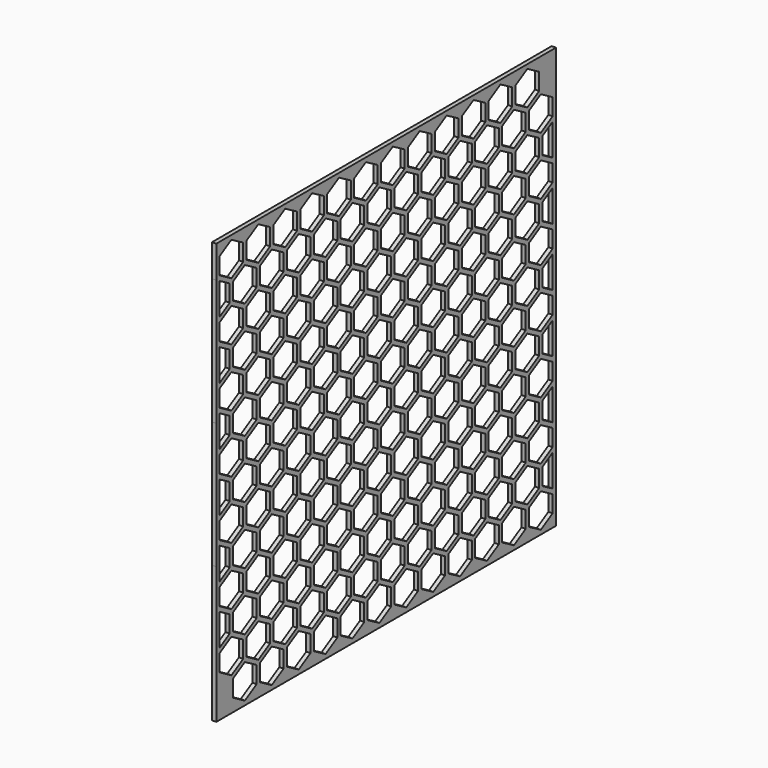
from build123d import *

# Parameters (mm, degrees)
F0_W     = 2020
F0_H     = 2002.9909152447
F1_DEPTH = 20
F2_D     = 0.05


with BuildPart() as f1:
    # F0 (on Right) → F1 (new body)
    with BuildSketch(Plane.YZ):
        with Locations((200, 900.6664199358)):
            Rectangle(F0_W, F0_H)
        Polygon((-570, -40.4145188433), (-640, -80.8290376865), (-710, -40.4145188433), (-710, 40.4145188433), (-640, 80.8290376865), (-570, 40.4145188433), align=None, mode=Mode.SUBTRACT)
        Polygon((-790, 98.1495457622), (-790, 178.9785834488), (-720, 219.3931022921), (-650, 178.9785834488), (-650, 98.1495457622), (-720, 57.735026919), align=None, mode=Mode.SUBTRACT)
        Polygon((-560, 219.3931022921), (-490, 178.9785834488), (-490, 98.1495457622), (-560, 57.735026919), (-630, 98.1495457622), (-630, 178.9785834488), align=None, mode=Mode.SUBTRACT)
        Polygon((-550, 40.4145188433), (-480, 80.8290376865), (-410, 40.4145188433), (-410, -40.4145188433), (-480, -80.8290376865), (-550, -40.4145188433), align=None, mode=Mode.SUBTRACT)
        Polygon((-250, 40.4145188433), (-250, -40.4145188433), (-320, -80.8290376865), (-390, -40.4145188433), (-390, 40.4145188433), (-320, 80.8290376865), align=None, mode=Mode.SUBTRACT)
        Polygon((-330, 98.1495457622), (-400, 57.735026919), (-470, 98.1495457622), (-470, 178.9785834488), (-400, 219.3931022921), (-330, 178.9785834488), align=None, mode=Mode.SUBTRACT)
        Polygon((-730, 317.5426480543), (-730, 236.7136103677), (-790, 202.0725942164), (-790, 352.1836642057), align=None, mode=Mode.SUBTRACT)
        Polygon((-570, 236.7136103677), (-640, 196.2990915245), (-710, 236.7136103677), (-710, 317.5426480543), (-640, 357.9571668976), (-570, 317.5426480543), align=None, mode=Mode.SUBTRACT)
        Polygon((-410, 236.7136103677), (-480, 196.2990915245), (-550, 236.7136103677), (-550, 317.5426480543), (-480, 357.9571668976), (-410, 317.5426480543), align=None, mode=Mode.SUBTRACT)
        Polygon((-250, 317.5426480543), (-250, 236.7136103677), (-320, 196.2990915245), (-390, 236.7136103677), (-390, 317.5426480543), (-320, 357.9571668976), align=None, mode=Mode.SUBTRACT)
        Polygon((-230, 40.4145188433), (-160, 80.8290376865), (-90, 40.4145188433), (-90, -40.4145188433), (-160, -80.8290376865), (-230, -40.4145188433), align=None, mode=Mode.SUBTRACT)
        Polygon((-240, 219.3931022921), (-170, 178.9785834488), (-170, 98.1495457622), (-240, 57.735026919), (-310, 98.1495457622), (-310, 178.9785834488), align=None, mode=Mode.SUBTRACT)
        Polygon((-10, 178.9785834488), (-10, 98.1495457622), (-80, 57.735026919), (-150, 98.1495457622), (-150, 178.9785834488), (-80, 219.3931022921), align=None, mode=Mode.SUBTRACT)
        Polygon((70, -40.4145188433), (0, -80.8290376865), (-70, -40.4145188433), (-70, 40.4145188433), (0, 80.8290376865), (70, 40.4145188433), align=None, mode=Mode.SUBTRACT)
        Polygon((230, -40.4145188433), (160, -80.8290376865), (90, -40.4145188433), (90, 40.4145188433), (160, 80.8290376865), (230, 40.4145188433), align=None, mode=Mode.SUBTRACT)
        Polygon((80, 57.735026919), (10, 98.1495457622), (10, 178.9785834488), (80, 219.3931022921), (150, 178.9785834488), (150, 98.1495457622), align=None, mode=Mode.SUBTRACT)
        Polygon((-230, 236.7136103677), (-230, 317.5426480543), (-160, 357.9571668976), (-90, 317.5426480543), (-90, 236.7136103677), (-160, 196.2990915245), align=None, mode=Mode.SUBTRACT)
        Polygon((-70, 317.5426480543), (0, 357.9571668976), (70, 317.5426480543), (70, 236.7136103677), (0, 196.2990915245), (-70, 236.7136103677), align=None, mode=Mode.SUBTRACT)
        Polygon((160, 196.2990915245), (90, 236.7136103677), (90, 317.5426480543), (160, 357.9571668976), (230, 317.5426480543), (230, 236.7136103677), align=None, mode=Mode.SUBTRACT)
        Polygon((-650, 375.2776749733), (-720, 334.86315613), (-790, 375.2776749733), (-790, 456.1067126598), (-720, 496.5212315031), (-650, 456.1067126598), align=None, mode=Mode.SUBTRACT)
        Polygon((-560, 334.86315613), (-630, 375.2776749733), (-630, 456.1067126598), (-560, 496.5212315031), (-490, 456.1067126598), (-490, 375.2776749733), align=None, mode=Mode.SUBTRACT)
        Polygon((-790, 479.2007234274), (-790, 629.3117934167), (-730, 594.6707772653), (-730, 513.8417395788), align=None, mode=Mode.SUBTRACT)
        Polygon((-710, 513.8417395788), (-710, 594.6707772653), (-640, 635.0852961086), (-570, 594.6707772653), (-570, 513.8417395788), (-640, 473.4272207355), align=None, mode=Mode.SUBTRACT)
        Polygon((-400, 334.86315613), (-470, 375.2776749733), (-470, 456.1067126598), (-400, 496.5212315031), (-330, 456.1067126598), (-330, 375.2776749733), align=None, mode=Mode.SUBTRACT)
        Polygon((-410, 513.8417395788), (-480, 473.4272207355), (-550, 513.8417395788), (-550, 594.6707772653), (-480, 635.0852961086), (-410, 594.6707772653), align=None, mode=Mode.SUBTRACT)
        Polygon((-390, 594.6707772653), (-320, 635.0852961086), (-250, 594.6707772653), (-250, 513.8417395788), (-320, 473.4272207355), (-390, 513.8417395788), align=None, mode=Mode.SUBTRACT)
        Polygon((-720, 773.6493607141), (-650, 733.2348418708), (-650, 652.4058041843), (-720, 611.991285341), (-790, 652.4058041843), (-790, 733.2348418708), align=None, mode=Mode.SUBTRACT)
        Polygon((-630, 733.2348418708), (-560, 773.6493607141), (-490, 733.2348418708), (-490, 652.4058041843), (-560, 611.991285341), (-630, 652.4058041843), align=None, mode=Mode.SUBTRACT)
        Polygon((-730, 871.7989064763), (-730, 790.9698687898), (-790, 756.3288526384), (-790, 906.4399226277), align=None, mode=Mode.SUBTRACT)
        Polygon((-570, 790.9698687898), (-640, 750.5553499465), (-710, 790.9698687898), (-710, 871.7989064763), (-640, 912.2134253196), (-570, 871.7989064763), align=None, mode=Mode.SUBTRACT)
        Polygon((-470, 733.2348418708), (-400, 773.6493607141), (-330, 733.2348418708), (-330, 652.4058041843), (-400, 611.991285341), (-470, 652.4058041843), align=None, mode=Mode.SUBTRACT)
        Polygon((-410, 871.7989064763), (-410, 790.9698687898), (-480, 750.5553499465), (-550, 790.9698687898), (-550, 871.7989064763), (-480, 912.2134253196), align=None, mode=Mode.SUBTRACT)
        Polygon((-250, 790.9698687898), (-320, 750.5553499465), (-390, 790.9698687898), (-390, 871.7989064763), (-320, 912.2134253196), (-250, 871.7989064763), align=None, mode=Mode.SUBTRACT)
        Polygon((-170, 375.2776749733), (-240, 334.86315613), (-310, 375.2776749733), (-310, 456.1067126598), (-240, 496.5212315031), (-170, 456.1067126598), align=None, mode=Mode.SUBTRACT)
        Polygon((-80, 334.86315613), (-150, 375.2776749733), (-150, 456.1067126598), (-80, 496.5212315031), (-10, 456.1067126598), (-10, 375.2776749733), align=None, mode=Mode.SUBTRACT)
        Polygon((-230, 594.6707772653), (-160, 635.0852961086), (-90, 594.6707772653), (-90, 513.8417395788), (-160, 473.4272207355), (-230, 513.8417395788), align=None, mode=Mode.SUBTRACT)
        Polygon((150, 375.2776749733), (80, 334.86315613), (10, 375.2776749733), (10, 456.1067126598), (80, 496.5212315031), (150, 456.1067126598), align=None, mode=Mode.SUBTRACT)
        Polygon((-70, 594.6707772653), (0, 635.0852961086), (70, 594.6707772653), (70, 513.8417395788), (0, 473.4272207355), (-70, 513.8417395788), align=None, mode=Mode.SUBTRACT)
        Polygon((230, 513.8417395788), (160, 473.4272207355), (90, 513.8417395788), (90, 594.6707772653), (160, 635.0852961086), (230, 594.6707772653), align=None, mode=Mode.SUBTRACT)
        Polygon((-310, 733.2348418708), (-240, 773.6493607141), (-170, 733.2348418708), (-170, 652.4058041843), (-240, 611.991285341), (-310, 652.4058041843), align=None, mode=Mode.SUBTRACT)
        Polygon((-150, 733.2348418708), (-80, 773.6493607141), (-10, 733.2348418708), (-10, 652.4058041843), (-80, 611.991285341), (-150, 652.4058041843), align=None, mode=Mode.SUBTRACT)
        Polygon((-90, 790.9698687898), (-160, 750.5553499465), (-230, 790.9698687898), (-230, 871.7989064763), (-160, 912.2134253196), (-90, 871.7989064763), align=None, mode=Mode.SUBTRACT)
        Polygon((10, 652.4058041843), (10, 733.2348418708), (80, 773.6493607141), (150, 733.2348418708), (150, 652.4058041843), (80, 611.991285341), align=None, mode=Mode.SUBTRACT)
        Polygon((70, 790.9698687898), (0, 750.5553499465), (-70, 790.9698687898), (-70, 871.7989064763), (0, 912.2134253196), (70, 871.7989064763), align=None, mode=Mode.SUBTRACT)
        Polygon((160, 750.5553499465), (90, 790.9698687898), (90, 871.7989064763), (160, 912.2134253196), (230, 871.7989064763), (230, 790.9698687898), align=None, mode=Mode.SUBTRACT)
        Polygon((250, 40.4145188433), (320, 80.8290376865), (390, 40.4145188433), (390, -40.4145188433), (320, -80.8290376865), (250, -40.4145188433), align=None, mode=Mode.SUBTRACT)
        Polygon((240, 219.3931022921), (310, 178.9785834488), (310, 98.1495457622), (240, 57.735026919), (170, 98.1495457622), (170, 178.9785834488), align=None, mode=Mode.SUBTRACT)
        Polygon((470, 98.1495457622), (400, 57.735026919), (330, 98.1495457622), (330, 178.9785834488), (400, 219.3931022921), (470, 178.9785834488), align=None, mode=Mode.SUBTRACT)
        Polygon((410, -40.4145188433), (410, 40.4145188433), (480, 80.8290376865), (550, 40.4145188433), (550, -40.4145188433), (480, -80.8290376865), align=None, mode=Mode.SUBTRACT)
        Polygon((570, 40.4145188433), (640, 80.8290376865), (710, 40.4145188433), (710, -40.4145188433), (640, -80.8290376865), (570, -40.4145188433), align=None, mode=Mode.SUBTRACT)
        Polygon((560, 57.735026919), (490, 98.1495457622), (490, 178.9785834488), (560, 219.3931022921), (630, 178.9785834488), (630, 98.1495457622), align=None, mode=Mode.SUBTRACT)
        Polygon((390, 317.5426480543), (390, 236.7136103677), (320, 196.2990915245), (250, 236.7136103677), (250, 317.5426480543), (320, 357.9571668976), align=None, mode=Mode.SUBTRACT)
        Polygon((480, 196.2990915245), (410, 236.7136103677), (410, 317.5426480543), (480, 357.9571668976), (550, 317.5426480543), (550, 236.7136103677), align=None, mode=Mode.SUBTRACT)
        Polygon((570, 317.5426480543), (640, 357.9571668976), (710, 317.5426480543), (710, 236.7136103677), (640, 196.2990915245), (570, 236.7136103677), align=None, mode=Mode.SUBTRACT)
        Polygon((800, 80.8290376865), (870, 40.4145188433), (870, -40.4145188433), (800, -80.8290376865), (730, -40.4145188433), (730, 40.4145188433), align=None, mode=Mode.SUBTRACT)
        Polygon((720, 219.3931022921), (790, 178.9785834488), (790, 98.1495457622), (720, 57.735026919), (650, 98.1495457622), (650, 178.9785834488), align=None, mode=Mode.SUBTRACT)
        Polygon((880, 219.3931022921), (950, 178.9785834488), (950, 98.1495457622), (880, 57.735026919), (810, 98.1495457622), (810, 178.9785834488), align=None, mode=Mode.SUBTRACT)
        Polygon((1030, -40.4145188433), (960, -80.8290376865), (890, -40.4145188433), (890, 40.4145188433), (960, 80.8290376865), (1030, 40.4145188433), align=None, mode=Mode.SUBTRACT)
        Polygon((1190, -40.4145188433), (1120, -80.8290376865), (1050, -40.4145188433), (1050, 40.4145188433), (1120, 80.8290376865), (1190, 40.4145188433), align=None, mode=Mode.SUBTRACT)
        Polygon((970, 98.1495457622), (970, 178.9785834488), (1040, 219.3931022921), (1110, 178.9785834488), (1110, 98.1495457622), (1040, 57.735026919), align=None, mode=Mode.SUBTRACT)
        Polygon((1190, 63.5085296108), (1130, 98.1495457622), (1130, 178.9785834488), (1190, 213.6195996002), align=None, mode=Mode.SUBTRACT)
        Polygon((870, 317.5426480543), (870, 236.7136103678), (800, 196.2990915245), (730, 236.7136103678), (730, 317.5426480543), (800, 357.9571668976), align=None, mode=Mode.SUBTRACT)
        Polygon((1030, 236.7136103678), (960, 196.2990915245), (890, 236.7136103678), (890, 317.5426480543), (960, 357.9571668976), (1030, 317.5426480543), align=None, mode=Mode.SUBTRACT)
        Polygon((1190, 236.7136103678), (1120, 196.2990915245), (1050, 236.7136103678), (1050, 317.5426480543), (1120, 357.9571668976), (1190, 317.5426480543), align=None, mode=Mode.SUBTRACT)
        Polygon((310, 456.1067126598), (310, 375.2776749733), (240, 334.86315613), (170, 375.2776749733), (170, 456.1067126598), (240, 496.5212315031), align=None, mode=Mode.SUBTRACT)
        Polygon((470, 456.1067126598), (470, 375.2776749733), (400, 334.86315613), (330, 375.2776749733), (330, 456.1067126598), (400, 496.5212315031), align=None, mode=Mode.SUBTRACT)
        Polygon((390, 594.6707772653), (390, 513.8417395788), (320, 473.4272207355), (250, 513.8417395788), (250, 594.6707772653), (320, 635.0852961086), align=None, mode=Mode.SUBTRACT)
        Polygon((630, 375.2776749733), (560, 334.86315613), (490, 375.2776749733), (490, 456.1067126598), (560, 496.5212315031), (630, 456.1067126598), align=None, mode=Mode.SUBTRACT)
        Polygon((410, 513.8417395788), (410, 594.6707772653), (480, 635.0852961086), (550, 594.6707772653), (550, 513.8417395788), (480, 473.4272207355), align=None, mode=Mode.SUBTRACT)
        Polygon((640, 635.0852961086), (710, 594.6707772653), (710, 513.8417395788), (640, 473.4272207355), (570, 513.8417395788), (570, 594.6707772653), align=None, mode=Mode.SUBTRACT)
        Polygon((170, 733.2348418708), (240, 773.6493607141), (310, 733.2348418708), (310, 652.4058041843), (240, 611.991285341), (170, 652.4058041843), align=None, mode=Mode.SUBTRACT)
        Polygon((330, 733.2348418708), (400, 773.6493607141), (470, 733.2348418708), (470, 652.4058041843), (400, 611.991285341), (330, 652.4058041843), align=None, mode=Mode.SUBTRACT)
        Polygon((390, 790.9698687898), (320, 750.5553499465), (250, 790.9698687898), (250, 871.7989064763), (320, 912.2134253196), (390, 871.7989064763), align=None, mode=Mode.SUBTRACT)
        Polygon((490, 733.2348418708), (560, 773.6493607141), (630, 733.2348418708), (630, 652.4058041843), (560, 611.991285341), (490, 652.4058041843), align=None, mode=Mode.SUBTRACT)
        Polygon((550, 871.7989064763), (550, 790.9698687898), (480, 750.5553499465), (410, 790.9698687898), (410, 871.7989064763), (480, 912.2134253196), align=None, mode=Mode.SUBTRACT)
        Polygon((710, 790.9698687898), (640, 750.5553499465), (570, 790.9698687898), (570, 871.7989064763), (640, 912.2134253196), (710, 871.7989064763), align=None, mode=Mode.SUBTRACT)
        Polygon((790, 375.2776749733), (720, 334.86315613), (650, 375.2776749733), (650, 456.1067126598), (720, 496.5212315031), (790, 456.1067126598), align=None, mode=Mode.SUBTRACT)
        Polygon((950, 456.1067126598), (950, 375.2776749733), (880, 334.86315613), (810, 375.2776749733), (810, 456.1067126598), (880, 496.5212315031), align=None, mode=Mode.SUBTRACT)
        Polygon((870, 513.8417395788), (800, 473.4272207355), (730, 513.8417395788), (730, 594.6707772653), (800, 635.0852961086), (870, 594.6707772653), align=None, mode=Mode.SUBTRACT)
        Polygon((1110, 375.2776749733), (1040, 334.86315613), (970, 375.2776749733), (970, 456.1067126598), (1040, 496.5212315031), (1110, 456.1067126598), align=None, mode=Mode.SUBTRACT)
        Polygon((1190, 340.6366588219), (1130, 375.2776749733), (1130, 456.1067126598), (1190, 490.7477288112), align=None, mode=Mode.SUBTRACT)
        Polygon((1030, 513.8417395788), (960, 473.4272207355), (890, 513.8417395788), (890, 594.6707772653), (960, 635.0852961086), (1030, 594.6707772653), align=None, mode=Mode.SUBTRACT)
        Polygon((1120, 635.0852961086), (1190, 594.6707772653), (1190, 513.8417395788), (1120, 473.4272207355), (1050, 513.8417395788), (1050, 594.6707772653), align=None, mode=Mode.SUBTRACT)
        Polygon((720, 773.6493607141), (790, 733.2348418708), (790, 652.4058041843), (720, 611.991285341), (650, 652.4058041843), (650, 733.2348418708), align=None, mode=Mode.SUBTRACT)
        Polygon((880, 773.6493607141), (950, 733.2348418708), (950, 652.4058041843), (880, 611.991285341), (810, 652.4058041843), (810, 733.2348418708), align=None, mode=Mode.SUBTRACT)
        Polygon((870, 871.7989064763), (870, 790.9698687898), (800, 750.5553499465), (730, 790.9698687898), (730, 871.7989064763), (800, 912.2134253196), align=None, mode=Mode.SUBTRACT)
        Polygon((1040, 773.6493607141), (1110, 733.2348418708), (1110, 652.4058041843), (1040, 611.991285341), (970, 652.4058041843), (970, 733.2348418708), align=None, mode=Mode.SUBTRACT)
        Polygon((1130, 652.4058041843), (1130, 733.2348418708), (1190, 767.8758580222), (1190, 617.7647880329), align=None, mode=Mode.SUBTRACT)
        Polygon((1030, 790.9698687898), (960, 750.5553499465), (890, 790.9698687898), (890, 871.7989064763), (960, 912.2134253196), (1030, 871.7989064763), align=None, mode=Mode.SUBTRACT)
        Polygon((1190, 871.7989064763), (1190, 790.9698687898), (1120, 750.5553499465), (1050, 790.9698687898), (1050, 871.7989064763), (1120, 912.2134253196), align=None, mode=Mode.SUBTRACT)
        Polygon((-650, 929.5339333953), (-720, 889.119414552), (-790, 929.5339333953), (-790, 1010.3629710818), (-720, 1050.7774899251), (-650, 1010.3629710818), align=None, mode=Mode.SUBTRACT)
        Polygon((-560, 889.119414552), (-630, 929.5339333953), (-630, 1010.3629710818), (-560, 1050.7774899251), (-490, 1010.3629710818), (-490, 929.5339333953), align=None, mode=Mode.SUBTRACT)
        Polygon((-790, 1033.4569818494), (-790, 1183.5680518387), (-730, 1148.9270356874), (-730, 1068.0979980008), align=None, mode=Mode.SUBTRACT)
        Polygon((-710, 1148.9270356874), (-640, 1189.3415545306), (-570, 1148.9270356874), (-570, 1068.0979980008), (-640, 1027.6834791575), (-710, 1068.0979980008), align=None, mode=Mode.SUBTRACT)
        Polygon((-400, 889.119414552), (-470, 929.5339333953), (-470, 1010.3629710818), (-400, 1050.7774899251), (-330, 1010.3629710819), (-330, 929.5339333953), align=None, mode=Mode.SUBTRACT)
        Polygon((-410, 1068.0979980008), (-480, 1027.6834791575), (-550, 1068.0979980008), (-550, 1148.9270356874), (-480, 1189.3415545306), (-410, 1148.9270356874), align=None, mode=Mode.SUBTRACT)
        Polygon((-390, 1068.0979980008), (-390, 1148.9270356874), (-320, 1189.3415545306), (-250, 1148.9270356874), (-250, 1068.0979980008), (-320, 1027.6834791575), align=None, mode=Mode.SUBTRACT)
        Polygon((-790, 1287.4911002929), (-720, 1327.9056191361), (-650, 1287.4911002929), (-650, 1206.6620626063), (-720, 1166.247543763), (-790, 1206.6620626063), align=None, mode=Mode.SUBTRACT)
        Polygon((-630, 1206.6620626063), (-630, 1287.4911002929), (-560, 1327.9056191361), (-490, 1287.4911002929), (-490, 1206.6620626063), (-560, 1166.247543763), align=None, mode=Mode.SUBTRACT)
        Polygon((-790, 1460.6961810498), (-730, 1426.0551648984), (-730, 1345.2261272118), (-790, 1310.5851110605), align=None, mode=Mode.SUBTRACT)
        Polygon((-710, 1426.0551648984), (-640, 1466.4696837417), (-570, 1426.0551648984), (-570, 1345.2261272118), (-640, 1304.8116083686), (-710, 1345.2261272118), align=None, mode=Mode.SUBTRACT)
        Polygon((-470, 1287.4911002929), (-400, 1327.9056191361), (-330, 1287.4911002929), (-330, 1206.6620626063), (-400, 1166.247543763), (-470, 1206.6620626063), align=None, mode=Mode.SUBTRACT)
        Polygon((-480, 1466.4696837417), (-410, 1426.0551648984), (-410, 1345.2261272118), (-480, 1304.8116083686), (-550, 1345.2261272118), (-550, 1426.0551648984), align=None, mode=Mode.SUBTRACT)
        Polygon((-320, 1466.4696837417), (-250, 1426.0551648984), (-250, 1345.2261272118), (-320, 1304.8116083686), (-390, 1345.2261272118), (-390, 1426.0551648984), align=None, mode=Mode.SUBTRACT)
        Polygon((-170, 929.5339333953), (-240, 889.119414552), (-310, 929.5339333953), (-310, 1010.3629710818), (-240, 1050.7774899251), (-170, 1010.3629710819), align=None, mode=Mode.SUBTRACT)
        Polygon((-10, 929.5339333953), (-80, 889.119414552), (-150, 929.5339333953), (-150, 1010.3629710819), (-80, 1050.7774899251), (-10, 1010.3629710819), align=None, mode=Mode.SUBTRACT)
        Polygon((-90, 1148.9270356874), (-90, 1068.0979980008), (-160, 1027.6834791575), (-230, 1068.0979980008), (-230, 1148.9270356874), (-160, 1189.3415545306), align=None, mode=Mode.SUBTRACT)
        Polygon((150, 929.5339333953), (80, 889.119414552), (10, 929.5339333953), (10, 1010.3629710819), (80, 1050.7774899251), (150, 1010.3629710819), align=None, mode=Mode.SUBTRACT)
        Polygon((0, 1027.6834791575), (-70, 1068.0979980008), (-70, 1148.9270356874), (0, 1189.3415545306), (70, 1148.9270356874), (70, 1068.0979980008), align=None, mode=Mode.SUBTRACT)
        Polygon((160, 1189.3415545306), (230, 1148.9270356874), (230, 1068.0979980008), (160, 1027.6834791575), (90, 1068.0979980008), (90, 1148.9270356874), align=None, mode=Mode.SUBTRACT)
        Polygon((-240, 1327.9056191361), (-170, 1287.4911002929), (-170, 1206.6620626063), (-240, 1166.247543763), (-310, 1206.6620626063), (-310, 1287.4911002929), align=None, mode=Mode.SUBTRACT)
        Polygon((-150, 1287.4911002929), (-80, 1327.9056191361), (-10, 1287.4911002929), (-10, 1206.6620626063), (-80, 1166.247543763), (-150, 1206.6620626063), align=None, mode=Mode.SUBTRACT)
        Polygon((-230, 1426.0551648984), (-160, 1466.4696837417), (-90, 1426.0551648984), (-90, 1345.2261272118), (-160, 1304.8116083686), (-230, 1345.2261272118), align=None, mode=Mode.SUBTRACT)
        Polygon((10, 1206.6620626063), (10, 1287.4911002929), (80, 1327.9056191361), (150, 1287.4911002929), (150, 1206.6620626063), (80, 1166.247543763), align=None, mode=Mode.SUBTRACT)
        Polygon((-70, 1345.2261272118), (-70, 1426.0551648984), (0, 1466.4696837417), (70, 1426.0551648984), (70, 1345.2261272118), (0, 1304.8116083686), align=None, mode=Mode.SUBTRACT)
        Polygon((90, 1426.0551648984), (160, 1466.4696837417), (230, 1426.0551648984), (230, 1345.2261272118), (160, 1304.8116083686), (90, 1345.2261272118), align=None, mode=Mode.SUBTRACT)
        Polygon((-650, 1483.7901918173), (-720, 1443.3756729741), (-790, 1483.7901918173), (-790, 1564.6192295039), (-720, 1605.0337483472), (-650, 1564.6192295039), align=None, mode=Mode.SUBTRACT)
        Polygon((-490, 1483.7901918173), (-560, 1443.3756729741), (-630, 1483.7901918173), (-630, 1564.6192295039), (-560, 1605.0337483472), (-490, 1564.6192295039), align=None, mode=Mode.SUBTRACT)
        Polygon((-330, 1483.7901918173), (-400, 1443.3756729741), (-470, 1483.7901918173), (-470, 1564.6192295039), (-400, 1605.0337483472), (-330, 1564.6192295039), align=None, mode=Mode.SUBTRACT)
        Polygon((-730, 1703.1832941094), (-730, 1622.3542564229), (-790, 1587.7132402715), (-790, 1737.8243102608), align=None, mode=Mode.SUBTRACT)
        Polygon((-570, 1703.1832941094), (-570, 1622.3542564229), (-640, 1581.9397375796), (-710, 1622.3542564229), (-710, 1703.1832941094), (-640, 1743.5978129527), align=None, mode=Mode.SUBTRACT)
        Polygon((-720, 1882.1618775582), (-650, 1841.7473587149), (-650, 1760.9183210284), (-720, 1720.5038021851), (-790, 1760.9183210284), (-790, 1841.7473587149), align=None, mode=Mode.SUBTRACT)
        Polygon((-630, 1841.7473587149), (-560, 1882.1618775582), (-490, 1841.7473587149), (-490, 1760.9183210284), (-560, 1720.5038021851), (-630, 1760.9183210284), align=None, mode=Mode.SUBTRACT)
        Polygon((-410, 1622.3542564229), (-480, 1581.9397375796), (-550, 1622.3542564229), (-550, 1703.1832941094), (-480, 1743.5978129527), (-410, 1703.1832941094), align=None, mode=Mode.SUBTRACT)
        Polygon((-250, 1622.3542564229), (-320, 1581.9397375796), (-390, 1622.3542564229), (-390, 1703.1832941094), (-320, 1743.5978129527), (-250, 1703.1832941094), align=None, mode=Mode.SUBTRACT)
        Polygon((-470, 1841.7473587149), (-400, 1882.1618775582), (-330, 1841.7473587149), (-330, 1760.9183210284), (-400, 1720.5038021851), (-470, 1760.9183210284), align=None, mode=Mode.SUBTRACT)
        Polygon((-170, 1483.7901918173), (-240, 1443.3756729741), (-310, 1483.7901918173), (-310, 1564.6192295039), (-240, 1605.0337483472), (-170, 1564.6192295039), align=None, mode=Mode.SUBTRACT)
        Polygon((-80, 1443.3756729741), (-150, 1483.7901918173), (-150, 1564.6192295039), (-80, 1605.0337483472), (-10, 1564.6192295039), (-10, 1483.7901918173), align=None, mode=Mode.SUBTRACT)
        Polygon((80, 1443.3756729741), (10, 1483.7901918173), (10, 1564.6192295039), (80, 1605.0337483472), (150, 1564.6192295039), (150, 1483.7901918173), align=None, mode=Mode.SUBTRACT)
        Polygon((-90, 1622.3542564229), (-160, 1581.9397375796), (-230, 1622.3542564229), (-230, 1703.1832941094), (-160, 1743.5978129527), (-90, 1703.1832941094), align=None, mode=Mode.SUBTRACT)
        Polygon((-310, 1841.7473587149), (-240, 1882.1618775582), (-170, 1841.7473587149), (-170, 1760.9183210284), (-240, 1720.5038021851), (-310, 1760.9183210284), align=None, mode=Mode.SUBTRACT)
        Polygon((-150, 1760.9183210284), (-150, 1841.7473587149), (-80, 1882.1618775582), (-10, 1841.7473587149), (-10, 1760.9183210284), (-80, 1720.5038021851), align=None, mode=Mode.SUBTRACT)
        Polygon((70, 1703.1832941094), (70, 1622.3542564229), (0, 1581.9397375796), (-70, 1622.3542564229), (-70, 1703.1832941094), (0, 1743.5978129527), align=None, mode=Mode.SUBTRACT)
        Polygon((230, 1622.3542564229), (160, 1581.9397375796), (90, 1622.3542564229), (90, 1703.1832941094), (160, 1743.5978129527), (230, 1703.1832941094), align=None, mode=Mode.SUBTRACT)
        Polygon((10, 1841.7473587149), (80, 1882.1618775582), (150, 1841.7473587149), (150, 1760.9183210284), (80, 1720.5038021851), (10, 1760.9183210284), align=None, mode=Mode.SUBTRACT)
        Polygon((310, 1010.3629710819), (310, 929.5339333953), (240, 889.119414552), (170, 929.5339333953), (170, 1010.3629710819), (240, 1050.7774899251), align=None, mode=Mode.SUBTRACT)
        Polygon((470, 1010.3629710819), (470, 929.5339333953), (400, 889.119414552), (330, 929.5339333953), (330, 1010.3629710819), (400, 1050.7774899251), align=None, mode=Mode.SUBTRACT)
        Polygon((320, 1027.6834791575), (250, 1068.0979980008), (250, 1148.9270356874), (320, 1189.3415545306), (390, 1148.9270356874), (390, 1068.0979980008), align=None, mode=Mode.SUBTRACT)
        Polygon((630, 929.5339333953), (560, 889.119414552), (490, 929.5339333953), (490, 1010.3629710819), (560, 1050.7774899251), (630, 1010.3629710819), align=None, mode=Mode.SUBTRACT)
        Polygon((480, 1189.3415545306), (550, 1148.9270356874), (550, 1068.0979980008), (480, 1027.6834791575), (410, 1068.0979980008), (410, 1148.9270356874), align=None, mode=Mode.SUBTRACT)
        Polygon((640, 1027.6834791575), (570, 1068.0979980008), (570, 1148.9270356874), (640, 1189.3415545306), (710, 1148.9270356874), (710, 1068.0979980008), align=None, mode=Mode.SUBTRACT)
        Polygon((170, 1287.4911002929), (240, 1327.9056191361), (310, 1287.4911002929), (310, 1206.6620626063), (240, 1166.2475437631), (170, 1206.6620626063), align=None, mode=Mode.SUBTRACT)
        Polygon((330, 1287.4911002929), (400, 1327.9056191361), (470, 1287.4911002929), (470, 1206.6620626063), (400, 1166.2475437631), (330, 1206.6620626063), align=None, mode=Mode.SUBTRACT)
        Polygon((250, 1426.0551648984), (320, 1466.4696837417), (390, 1426.0551648984), (390, 1345.2261272118), (320, 1304.8116083686), (250, 1345.2261272118), align=None, mode=Mode.SUBTRACT)
        Polygon((560, 1327.9056191361), (630, 1287.4911002929), (630, 1206.6620626063), (560, 1166.2475437631), (490, 1206.6620626063), (490, 1287.4911002929), align=None, mode=Mode.SUBTRACT)
        Polygon((480, 1466.4696837417), (550, 1426.0551648984), (550, 1345.2261272118), (480, 1304.8116083686), (410, 1345.2261272118), (410, 1426.0551648984), align=None, mode=Mode.SUBTRACT)
        Polygon((570, 1426.0551648984), (640, 1466.4696837417), (710, 1426.0551648984), (710, 1345.2261272118), (640, 1304.8116083686), (570, 1345.2261272118), align=None, mode=Mode.SUBTRACT)
        Polygon((790, 929.5339333953), (720, 889.119414552), (650, 929.5339333953), (650, 1010.3629710819), (720, 1050.7774899251), (790, 1010.3629710819), align=None, mode=Mode.SUBTRACT)
        Polygon((950, 929.5339333953), (880, 889.119414552), (810, 929.5339333953), (810, 1010.3629710819), (880, 1050.7774899251), (950, 1010.3629710819), align=None, mode=Mode.SUBTRACT)
        Polygon((730, 1148.9270356874), (800, 1189.3415545306), (870, 1148.9270356874), (870, 1068.0979980008), (800, 1027.6834791575), (730, 1068.0979980008), align=None, mode=Mode.SUBTRACT)
        Polygon((1110, 929.5339333953), (1040, 889.119414552), (970, 929.5339333953), (970, 1010.3629710819), (1040, 1050.7774899251), (1110, 1010.3629710819), align=None, mode=Mode.SUBTRACT)
        Polygon((1190, 894.8929172439), (1130, 929.5339333953), (1130, 1010.3629710819), (1190, 1045.0039872332), align=None, mode=Mode.SUBTRACT)
        Polygon((1030, 1148.9270356874), (1030, 1068.0979980008), (960, 1027.6834791575), (890, 1068.0979980008), (890, 1148.9270356874), (960, 1189.3415545306), align=None, mode=Mode.SUBTRACT)
        Polygon((1050, 1148.9270356874), (1120, 1189.3415545306), (1190, 1148.9270356874), (1190, 1068.0979980008), (1120, 1027.6834791575), (1050, 1068.0979980008), align=None, mode=Mode.SUBTRACT)
        Polygon((650, 1287.4911002929), (720, 1327.9056191361), (790, 1287.4911002929), (790, 1206.6620626063), (720, 1166.2475437631), (650, 1206.6620626063), align=None, mode=Mode.SUBTRACT)
        Polygon((810, 1287.4911002929), (880, 1327.9056191361), (950, 1287.4911002929), (950, 1206.6620626063), (880, 1166.2475437631), (810, 1206.6620626063), align=None, mode=Mode.SUBTRACT)
        Polygon((800, 1466.4696837417), (870, 1426.0551648984), (870, 1345.2261272118), (800, 1304.8116083686), (730, 1345.2261272118), (730, 1426.0551648984), align=None, mode=Mode.SUBTRACT)
        Polygon((970, 1287.4911002929), (1040, 1327.9056191362), (1110, 1287.4911002929), (1110, 1206.6620626063), (1040, 1166.2475437631), (970, 1206.6620626063), align=None, mode=Mode.SUBTRACT)
        Polygon((1130, 1287.4911002929), (1190, 1322.1321164443), (1190, 1172.0210464549), (1130, 1206.6620626063), align=None, mode=Mode.SUBTRACT)
        Polygon((890, 1345.2261272118), (890, 1426.0551648984), (960, 1466.4696837417), (1030, 1426.0551648984), (1030, 1345.2261272118), (960, 1304.8116083686), align=None, mode=Mode.SUBTRACT)
        Polygon((1050, 1426.0551648984), (1120, 1466.4696837417), (1190, 1426.0551648984), (1190, 1345.2261272118), (1120, 1304.8116083686), (1050, 1345.2261272118), align=None, mode=Mode.SUBTRACT)
        Polygon((310, 1483.7901918173), (240, 1443.3756729741), (170, 1483.7901918173), (170, 1564.6192295039), (240, 1605.0337483472), (310, 1564.6192295039), align=None, mode=Mode.SUBTRACT)
        Polygon((470, 1483.7901918173), (400, 1443.3756729741), (330, 1483.7901918173), (330, 1564.6192295039), (400, 1605.0337483472), (470, 1564.6192295039), align=None, mode=Mode.SUBTRACT)
        Polygon((630, 1483.7901918173), (560, 1443.3756729741), (490, 1483.7901918174), (490, 1564.6192295039), (560, 1605.0337483472), (630, 1564.6192295039), align=None, mode=Mode.SUBTRACT)
        Polygon((390, 1622.3542564229), (320, 1581.9397375796), (250, 1622.3542564229), (250, 1703.1832941094), (320, 1743.5978129527), (390, 1703.1832941094), align=None, mode=Mode.SUBTRACT)
        Polygon((170, 1841.7473587149), (240, 1882.1618775582), (310, 1841.7473587149), (310, 1760.9183210284), (240, 1720.5038021851), (170, 1760.9183210284), align=None, mode=Mode.SUBTRACT)
        Polygon((330, 1841.7473587149), (400, 1882.1618775582), (470, 1841.7473587149), (470, 1760.9183210284), (400, 1720.5038021851), (330, 1760.9183210284), align=None, mode=Mode.SUBTRACT)
        Polygon((550, 1622.3542564229), (480, 1581.9397375796), (410, 1622.3542564229), (410, 1703.1832941094), (480, 1743.5978129527), (550, 1703.1832941094), align=None, mode=Mode.SUBTRACT)
        Polygon((710, 1622.3542564229), (640, 1581.9397375796), (570, 1622.3542564229), (570, 1703.1832941094), (640, 1743.5978129527), (710, 1703.1832941094), align=None, mode=Mode.SUBTRACT)
        Polygon((490, 1841.7473587149), (560, 1882.1618775582), (630, 1841.7473587149), (630, 1760.9183210284), (560, 1720.5038021851), (490, 1760.9183210284), align=None, mode=Mode.SUBTRACT)
        Polygon((790, 1564.6192295039), (790, 1483.7901918174), (720, 1443.3756729741), (650, 1483.7901918173), (650, 1564.6192295039), (720, 1605.0337483472), align=None, mode=Mode.SUBTRACT)
        Polygon((950, 1564.6192295039), (950, 1483.7901918174), (880, 1443.3756729741), (810, 1483.7901918174), (810, 1564.6192295039), (880, 1605.0337483472), align=None, mode=Mode.SUBTRACT)
        Polygon((1110, 1483.7901918174), (1040, 1443.3756729741), (970, 1483.7901918174), (970, 1564.6192295039), (1040, 1605.0337483472), (1110, 1564.6192295039), align=None, mode=Mode.SUBTRACT)
        Polygon((1190, 1599.2602456553), (1190, 1449.149175666), (1130, 1483.7901918174), (1130, 1564.6192295039), align=None, mode=Mode.SUBTRACT)
        Polygon((870, 1703.1832941094), (870, 1622.3542564229), (800, 1581.9397375796), (730, 1622.3542564229), (730, 1703.1832941094), (800, 1743.5978129527), align=None, mode=Mode.SUBTRACT)
        Polygon((720, 1882.1618775582), (790, 1841.7473587149), (790, 1760.9183210284), (720, 1720.5038021851), (650, 1760.9183210284), (650, 1841.7473587149), align=None, mode=Mode.SUBTRACT)
        Polygon((810, 1760.9183210284), (810, 1841.7473587149), (880, 1882.1618775582), (950, 1841.7473587149), (950, 1760.9183210284), (880, 1720.5038021851), align=None, mode=Mode.SUBTRACT)
        Polygon((1030, 1622.3542564229), (960, 1581.9397375796), (890, 1622.3542564229), (890, 1703.1832941094), (960, 1743.5978129527), (1030, 1703.1832941094), align=None, mode=Mode.SUBTRACT)
        Polygon((1190, 1622.3542564229), (1120, 1581.9397375796), (1050, 1622.3542564229), (1050, 1703.1832941094), (1120, 1743.5978129527), (1190, 1703.1832941094), align=None, mode=Mode.SUBTRACT)
        Polygon((1040, 1882.1618775582), (1110, 1841.7473587149), (1110, 1760.9183210284), (1040, 1720.5038021851), (970, 1760.9183210284), (970, 1841.7473587149), align=None, mode=Mode.SUBTRACT)
    extrude(amount=F1_DEPTH)

    # F2 (through all)
    with Locations(Plane(origin=(0, 0, 0), x_dir=(0, 1, 0), z_dir=(-1, 0, 0))):
        with Locations((-810, -549.1709623135), (-810, -1149.1709623135), (-810, -1749.1709623135)):
            Hole(F2_D / 2)


solid = f1.part
